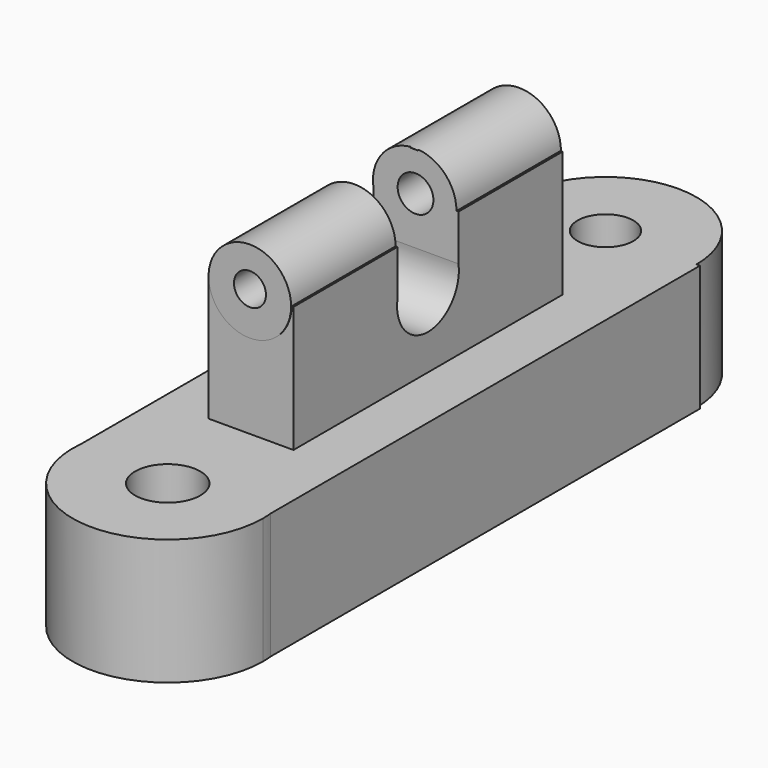
from build123d import *

# Parameters (mm, degrees)
F1_DEPTH  = 25.4
F2_W      = 17.1734541655
F2_H      = 67.8351446986
F3_DEPTH  = 50.8
F4_R      = 8.3202188196
F5_DEPTH  = 34.036
F6_R      = 8.4229671273
F7_DEPTH  = 34.036
F8_R      = 7.7907761567
F9_DEPTH  = 38.2351304042
F10_W     = 15.4029955156
F10_H     = 18.5406394303
F11_DEPTH = 38.2351304042
F12_W     = 7.4162576348
F12_H     = 9.1277062893
F13_DEPTH = 38.2351304042
F14_R     = 3.6080391768
F15_DEPTH = 73.5484318443
F16_DEPTH = 73.5484318443
F17_R     = 3.2271301898
F18_DEPTH = 36.068


with BuildPart() as f1:
    # F0 (on Top) → F1 (new body)
    with BuildSketch(Plane.XY):
        with BuildLine():
            Line((-13.4350418075, 55.1854707301), (-0.6998389782, 55.1854707301))
            ThreePointArc((-0.6998389782, 55.1854707301), (-19.0618000925, 73.5474318443), (-37.4237612067, 55.1854707301))
            Line((-37.4237612067, 55.1854707301), (-24.6885583774, 55.1854707301))
            ThreePointArc((-24.6885583774, 55.1854707301), (-19.0618000925, 60.812229015), (-13.4350418075, 55.1854707301))
        make_face()
        with BuildLine():
            ThreePointArc((-37.4237612067, 55.1854707301), (-19.0618000925, 36.8235096158), (-0.6998389782, 55.1854707301))
            Line((-0.6998389782, 55.1854707301), (-13.4350418075, 55.1854707301))
            ThreePointArc((-13.4350418075, 55.1854707301), (-19.0618000925, 49.5587124451), (-24.6885583774, 55.1854707301))
            Line((-24.6885583774, 55.1854707301), (-37.4237612067, 55.1854707301))
        make_face()
        with BuildLine():
            ThreePointArc((-38.1236001849, -53.1297404909), (-19.0618000925, -36.0131404184), (0, -53.1297404909))
            Line((0, -53.1297404909), (0, 55.1854707301))
            Line((0, 55.1854707301), (-0.6998389782, 55.1854707301))
            ThreePointArc((-0.6998389782, 55.1854707301), (-19.0618000925, 36.8235096158), (-37.4237612067, 55.1854707301))
            Line((-37.4237612067, 55.1854707301), (-38.1236001849, 55.1854707301))
            Line((-38.1236001849, 55.1854707301), (-38.1236001849, -53.1297404909))
        make_face()
        with BuildLine():
            Line((-12.4822018454, -55.1854707301), (0, -55.1854707301))
            Line((0, -55.1854707301), (0, -53.1297404909))
            ThreePointArc((0, -53.1297404909), (-19.0618000925, -36.0131404184), (-38.1236001849, -53.1297404909))
            Line((-38.1236001849, -53.1297404909), (-38.1236001849, -55.1854707301))
            Line((-38.1236001849, -55.1854707301), (-25.6413983395, -55.1854707301))
            ThreePointArc((-25.6413983395, -55.1854707301), (-19.0618000925, -48.605872483), (-12.4822018454, -55.1854707301))
        make_face()
        with BuildLine():
            Line((0, -53.1297404909), (0, -55.1854707301))
            Line((0, -55.1854707301), (-12.4822018454, -55.1854707301))
            ThreePointArc((-12.4822018454, -55.1854707301), (-19.0618000925, -61.7650689771), (-25.6413983395, -55.1854707301))
            Line((-25.6413983395, -55.1854707301), (-38.1236001849, -55.1854707301))
            Line((-38.1236001849, -55.1854707301), (-38.1236001849, -53.1297404909))
            ThreePointArc((-38.1236001849, -53.1297404909), (-20.0911498563, -74.3301485452), (0.1105302192, -55.1854707301))
            ThreePointArc((0.1105302192, -55.1854707301), (0.0828777227, -54.1561209662), (0, -53.1297404909))
        make_face()
    extrude(amount=F1_DEPTH)

    # F2 (on Top) → F3 (join)
    with BuildSketch(Plane.XY):
        with Locations((-19.3063616753, 0)):
            Rectangle(F2_W, F2_H)
    extrude(amount=F3_DEPTH)

    # F4 (on Front) → F5 (join)
    with BuildSketch(Plane.XZ):
        with Locations((-19.4193646312, 50.8048012853)):
            Circle(F4_R)
    extrude(amount=F5_DEPTH)

    # F6 (on Front) → F7 (join)
    with BuildSketch(Plane.XZ):
        with Locations((-19.5526480675, 50.8048012853)):
            Circle(F6_R)
    extrude(amount=-F7_DEPTH)

    # F8 (on Right) → F9 (cut, through all)
    with BuildSketch(Plane.YZ):
        with Locations((0, 40.3615534306)):
            Circle(F8_R)
    extrude(amount=-F9_DEPTH, mode=Mode.SUBTRACT)

    # F10 (on Right) → F11 (cut, through all)
    with BuildSketch(Plane.YZ):
        with Locations((2.328e-07, 49.9171148986)):
            Rectangle(F10_W, F10_H)
    extrude(amount=-F11_DEPTH, mode=Mode.SUBTRACT)

    # F12 (on Right) → F13 (cut, through all)
    with BuildSketch(Plane.YZ):
        with Locations((3.7081288174, 60.043156147)):
            Rectangle(F12_W, F12_H)
    extrude(amount=-F13_DEPTH, mode=Mode.SUBTRACT)

    # F14 (on Front) → F15 (cut, through all)
    with BuildSketch(Plane.XZ):
        with Locations((-19.3963646889, 51.2006953359)):
            Circle(F14_R)
    extrude(amount=-F15_DEPTH, mode=Mode.SUBTRACT)

    # F14 (on Front) → F16 (cut, through all)
    with BuildSketch(Plane.XZ):
        with Locations((-19.3963646889, 51.2006953359)):
            Circle(F14_R)
    extrude(amount=-F16_DEPTH, mode=Mode.SUBTRACT)

    # F17 (on Front) → F18 (cut)
    with BuildSketch(Plane.XZ):
        with Locations((-19.3963646889, 51.2006953359)):
            Circle(F17_R)
    extrude(amount=F18_DEPTH, mode=Mode.SUBTRACT)


solid = f1.part
